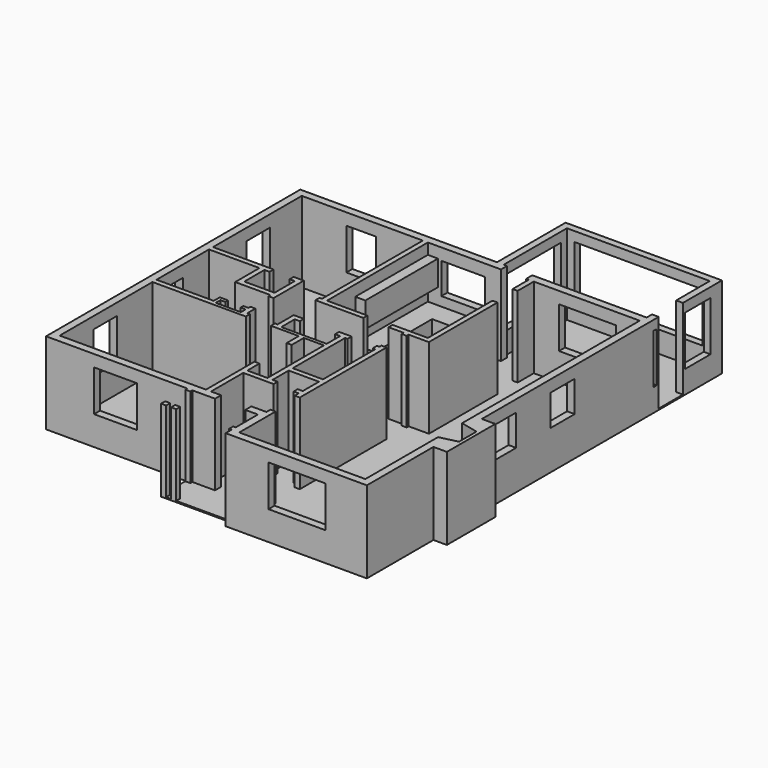
from build123d import *

# Parameters (mm, degrees)
F0_W      = 457.2
F0_H      = 76.2
F0_W_2    = 152.4
F1_DEPTH  = 2438.4
F0_W_3    = 203.2
F0_H_2    = 203.2
F0_W_4    = 76.2
F0_H_3    = 152.4
F0_W_5    = 1524
F0_H_4    = 787.4
F0_H_5    = 914.4
F2_DEPTH  = 38.1
F4_START  = 647.7
F3_W      = 203.2
F3_H      = 2108.2
F3_W_2    = 3860.8
F3_H_2    = 203.2
F3_H_3    = 965.2
F3_H_4    = 127
F4_DEPTH  = 1498.6
F5_START  = 838.2
F3_W_3    = 1727.2
F3_H_5    = 228.6
F3_W_4    = 1295.4
F3_W_5    = 228.6
F3_H_6    = 889
F3_W_6    = 889
F5_DEPTH  = 1244.6
F6_START  = 1143
F3_H_7    = 914.4
F3_W_7    = 1320.8
F6_DEPTH  = 939.8
F3_W_8    = 914.4
F3_H_8    = 1676.4
F7_DEPTH  = 50.8
F8_START  = 1168.4
F3_H_9    = 1828.8
F8_DEPTH  = 152.4
F9_START  = 1270
F9_DEPTH  = 609.6
F3_W_9    = 304.8
F3_H_10   = 2743.2
F10_DEPTH = 863.6
F11_START = 1346.2
F11_DEPTH = 762
F3_W_10   = 1524
F3_H_11   = 101.6
F12_DEPTH = 381
F13_SCALE = 0.025


with BuildPart() as f1:
    # F0 (on Top) → F1 (new body)
    with BuildSketch(Plane.XY):
        Polygon((3835.4, 11709.4), (4038.6, 11709.4), (4038.6, 13182.6), (-685.8, 13182.6), (-685.8, 10591.8), (-482.6, 10591.8), (-482.6, 12979.4), (3835.4, 12979.4), align=None)
        Polygon((-482.6, 10591.8), (-685.8, 10591.8), (-6629.4, 10591.8), (-6629.4, 990.6), (-2362.2, 990.6), (-2209.8, 990.6), (-1524, 990.6), (-1524, 1219.2), (-1828.8, 1219.2), (-1828.8, 2438.4), (-914.4, 2438.4), (-914.4, 2590.8), (-1066.8, 2590.8), (-1066.8, 3200.4), (-152.4, 3200.4), (-152.4, 2590.8), (-304.8, 2590.8), (-304.8, 2438.4), (-152.4, 2438.4), (-152.4, 2286), (0, 2286), (0, 5562.6), (-152.4, 5562.6), (-152.4, 5486.4), (-228.6, 5486.4), (-228.6, 5334), (-152.4, 5334), (-152.4, 3352.8), (-1066.8, 3352.8), (-1066.8, 5334), (-990.6, 5334), (-990.6, 5486.4), (-1371.6, 5486.4), (-1371.6, 5334), (-1219.2, 5334), (-1219.2, 4826), (-2590.8, 4826), (-2590.8, 5334), (-2438.4, 5334), (-2438.4, 5486.4), (-2743.2, 5486.4), (-2743.2, 4876.8), (-2819.4, 4876.8), (-2819.4, 4724.4), (-1981.2, 4724.4), (-1981.2, 4267.2), (-1828.8, 4267.2), (-1828.8, 4724.4), (-1219.2, 4724.4), (-1219.2, 2590.8), (-1828.8, 2590.8), (-1828.8, 3048), (-1981.2, 3048), (-1981.2, 1219.2), (-6400.8, 1219.2), (-6400.8, 4724.4), (-3581.4, 4724.4), (-3581.4, 4876.8), (-3657.6, 4876.8), (-3657.6, 5181.6), (-3810, 5181.6), (-3810, 5105.4), (-3962.4, 5105.4), (-3962.4, 5003.8), (-3810, 5003.8), (-3810, 4826), (-4572, 4826), (-4572, 5003.8), (-4419.6, 5003.8), (-4419.6, 5105.4), (-4673.6, 5105.4), (-4673.6, 4876.8), (-4902.2, 4876.8), (-4902.2, 4800.6), (-5359.4, 4800.6), (-5359.4, 4876.8), (-6400.8, 4876.8), (-6400.8, 5994.4), (-6400.8, 6070.6), (-6400.8, 6858), (-4876.8, 6858), (-4876.8, 6070.6), (-4876.8, 5994.4), (-4876.8, 5943.6), (-3810, 5943.6), (-3810, 5867.4), (-3657.6, 5867.4), (-3657.6, 7010.4), (-3962.4, 7010.4), (-3962.4, 6858), (-3810, 6858), (-3810, 6096), (-4724.4, 6096), (-4724.4, 6858), (-4572, 6858), (-4572, 7010.4), (-6400.8, 7010.4), (-6400.8, 10363.2), (-2743.2, 10363.2), (-2743.2, 6553.2), (-2819.4, 6553.2), (-2819.4, 6400.8), (-1371.6, 6400.8), (-1371.6, 6553.2), (-2590.8, 6553.2), (-2590.8, 10363.2), (-381, 10363.2), (-381, 10591.8), align=None)
        with Locations((-5130.8, 4838.7)):
            Rectangle(F0_W, F0_H)
        with Locations((-2286, 952.5)):
            Rectangle(F0_W_2, F0_H)
    extrude(amount=F1_DEPTH)



with BuildPart() as f1b:
    # F0 (on Top) → F1, piece 2 (new body)
    with BuildSketch(Plane.XY):
        with Locations((3937, 10693.4)):
            Rectangle(F0_W_3, F0_H_2)
        Polygon((3810, 10363.2), (3810, 3657.6), (4038.6, 3603.1714285714), (4038.6, 4114.8), (4038.6, 10591.8), (3835.4, 10591.8), (381, 10591.8), (381, 10363.2), (457.2, 10363.2), (457.2, 9753.6), (609.6, 9753.6), (609.6, 10363.2), align=None)
        Polygon((4343.4, 2870.2), (4038.6, 2797.6285714286), (4038.6, 2286), (4445, 2286), (4445, 4114.8), (4038.6, 4114.8), (4038.6, 3603.1714285714), (4343.4, 3530.6), align=None)
        Polygon((3810, 0), (0, 0), (0, 1219.2), (0, 1371.6), (-152.4, 1371.6), (-152.4, 1219.2), (-609.6, 1219.2), (-609.6, 990.6), (-228.6, 990.6), (-228.6, 152.4), (-228.6, 0), (-228.6, -228.6), (4038.6, -228.6), (4038.6, 2286), (4038.6, 2797.6285714286), (3810, 2743.2), align=None)
        with Locations((-266.7, 76.2)):
            Rectangle(F0_W_4, F0_H_3)
    extrude(amount=F1_DEPTH)


with BuildPart() as f1c:
    # F0 (on Top) → F1, piece 3 (new body)
    with BuildSketch(Plane.XY):
        Polygon((609.6, 8991.6), (457.2, 8991.6), (457.2, 6553.2), (-609.6, 6553.2), (-609.6, 6400.8), (-152.4, 6400.8), (-152.4, 6324.6), (0, 6324.6), (0, 6400.8), (609.6, 6400.8), align=None)
    extrude(amount=F1_DEPTH)


with BuildPart() as f1d:
    # F0 (on Top) → F1, piece 4 (new body)
    with BuildSketch(Plane.XY):
        with Locations((-2286, 76.2)):
            Rectangle(F0_W_2, F0_H_3)
    extrude(amount=F1_DEPTH)


with BuildPart() as f1e:
    # F0 (on Top) → F1, piece 5 (new body)
    with BuildSketch(Plane.XY):
        with Locations((-1981.2, 76.2)):
            Rectangle(F0_W_2, F0_H_3)
    extrude(amount=F1_DEPTH)


with BuildPart() as f1_1:
    add(f1.part)

    add(f1b.part)  # F2 merges F1b

    add(f1c.part)  # F2 merges F1c

    add(f1d.part)  # F2 merges F1d

    add(f1e.part)  # F2 merges F1e
    # F0 (on Top) → F2 (join)
    with BuildSketch(Plane.XY):
        Polygon((0, 1219.2), (0, 0), (3810, 0), (3810, 2743.2), (3810, 3657.6), (3810, 10363.2), (609.6, 10363.2), (609.6, 9753.6), (457.2, 9753.6), (457.2, 10363.2), (381, 10363.2), (381, 10591.8), (3835.4, 10591.8), (3835.4, 10795), (3835.4, 11709.4), (3835.4, 12979.4), (-482.6, 12979.4), (-482.6, 10591.8), (-381, 10591.8), (-381, 10363.2), (-2590.8, 10363.2), (-2590.8, 6553.2), (-1371.6, 6553.2), (-1371.6, 6400.8), (-2819.4, 6400.8), (-2819.4, 6553.2), (-2743.2, 6553.2), (-2743.2, 10363.2), (-6400.8, 10363.2), (-6400.8, 7010.4), (-4572, 7010.4), (-4572, 6858), (-4724.4, 6858), (-4724.4, 6096), (-3810, 6096), (-3810, 6858), (-3962.4, 6858), (-3962.4, 7010.4), (-3657.6, 7010.4), (-3657.6, 5867.4), (-3810, 5867.4), (-3810, 5943.6), (-4876.8, 5943.6), (-4876.8, 5994.4), (-6400.8, 5994.4), (-6400.8, 4876.8), (-5359.4, 4876.8), (-4902.2, 4876.8), (-4673.6, 4876.8), (-4673.6, 5105.4), (-4419.6, 5105.4), (-4419.6, 5003.8), (-4572, 5003.8), (-4572, 4826), (-3810, 4826), (-3810, 5003.8), (-3962.4, 5003.8), (-3962.4, 5105.4), (-3810, 5105.4), (-3810, 5181.6), (-3657.6, 5181.6), (-3657.6, 4876.8), (-3581.4, 4876.8), (-3581.4, 4724.4), (-6400.8, 4724.4), (-6400.8, 1219.2), (-1981.2, 1219.2), (-1981.2, 3048), (-1828.8, 3048), (-1828.8, 2590.8), (-1219.2, 2590.8), (-1219.2, 4724.4), (-1828.8, 4724.4), (-1828.8, 4267.2), (-1981.2, 4267.2), (-1981.2, 4724.4), (-2819.4, 4724.4), (-2819.4, 4876.8), (-2743.2, 4876.8), (-2743.2, 5486.4), (-2438.4, 5486.4), (-2438.4, 5334), (-2590.8, 5334), (-2590.8, 4826), (-1219.2, 4826), (-1219.2, 5334), (-1371.6, 5334), (-1371.6, 5486.4), (-990.6, 5486.4), (-990.6, 5334), (-1066.8, 5334), (-1066.8, 3352.8), (-152.4, 3352.8), (-152.4, 5334), (-228.6, 5334), (-228.6, 5486.4), (-152.4, 5486.4), (-152.4, 5562.6), (0, 5562.6), (0, 2286), (-152.4, 2286), (-152.4, 2438.4), (-304.8, 2438.4), (-304.8, 2590.8), (-152.4, 2590.8), (-152.4, 3200.4), (-1066.8, 3200.4), (-1066.8, 2590.8), (-914.4, 2590.8), (-914.4, 2438.4), (-1828.8, 2438.4), (-1828.8, 1219.2), (-1524, 1219.2), (-1524, 990.6), (-2209.8, 990.6), (-2209.8, 914.4), (-2362.2, 914.4), (-2362.2, 152.4), (-2209.8, 152.4), (-2209.8, 0), (-2057.4, 0), (-2057.4, 152.4), (-1905, 152.4), (-1905, 0), (-304.8, 0), (-304.8, 152.4), (-228.6, 152.4), (-228.6, 990.6), (-609.6, 990.6), (-609.6, 1219.2), (-152.4, 1219.2), (-152.4, 1371.6), (0, 1371.6), align=None)
        Polygon((457.2, 6553.2), (457.2, 8991.6), (609.6, 8991.6), (609.6, 6400.8), (0, 6400.8), (0, 6324.6), (-152.4, 6324.6), (-152.4, 6400.8), (-609.6, 6400.8), (-609.6, 6553.2), align=None, mode=Mode.SUBTRACT)
        Polygon((-482.6, 10591.8), (-685.8, 10591.8), (-6629.4, 10591.8), (-6629.4, 990.6), (-2362.2, 990.6), (-2209.8, 990.6), (-1524, 990.6), (-1524, 1219.2), (-1828.8, 1219.2), (-1828.8, 2438.4), (-914.4, 2438.4), (-914.4, 2590.8), (-1066.8, 2590.8), (-1066.8, 3200.4), (-152.4, 3200.4), (-152.4, 2590.8), (-304.8, 2590.8), (-304.8, 2438.4), (-152.4, 2438.4), (-152.4, 2286), (0, 2286), (0, 5562.6), (-152.4, 5562.6), (-152.4, 5486.4), (-228.6, 5486.4), (-228.6, 5334), (-152.4, 5334), (-152.4, 3352.8), (-1066.8, 3352.8), (-1066.8, 5334), (-990.6, 5334), (-990.6, 5486.4), (-1371.6, 5486.4), (-1371.6, 5334), (-1219.2, 5334), (-1219.2, 4826), (-2590.8, 4826), (-2590.8, 5334), (-2438.4, 5334), (-2438.4, 5486.4), (-2743.2, 5486.4), (-2743.2, 4876.8), (-2819.4, 4876.8), (-2819.4, 4724.4), (-1981.2, 4724.4), (-1981.2, 4267.2), (-1828.8, 4267.2), (-1828.8, 4724.4), (-1219.2, 4724.4), (-1219.2, 2590.8), (-1828.8, 2590.8), (-1828.8, 3048), (-1981.2, 3048), (-1981.2, 1219.2), (-6400.8, 1219.2), (-6400.8, 4724.4), (-3581.4, 4724.4), (-3581.4, 4876.8), (-3657.6, 4876.8), (-3657.6, 5181.6), (-3810, 5181.6), (-3810, 5105.4), (-3962.4, 5105.4), (-3962.4, 5003.8), (-3810, 5003.8), (-3810, 4826), (-4572, 4826), (-4572, 5003.8), (-4419.6, 5003.8), (-4419.6, 5105.4), (-4673.6, 5105.4), (-4673.6, 4876.8), (-4902.2, 4876.8), (-4902.2, 4800.6), (-5359.4, 4800.6), (-5359.4, 4876.8), (-6400.8, 4876.8), (-6400.8, 5994.4), (-6400.8, 6070.6), (-6400.8, 6858), (-4876.8, 6858), (-4876.8, 6070.6), (-4876.8, 5994.4), (-4876.8, 5943.6), (-3810, 5943.6), (-3810, 5867.4), (-3657.6, 5867.4), (-3657.6, 7010.4), (-3962.4, 7010.4), (-3962.4, 6858), (-3810, 6858), (-3810, 6096), (-4724.4, 6096), (-4724.4, 6858), (-4572, 6858), (-4572, 7010.4), (-6400.8, 7010.4), (-6400.8, 10363.2), (-2743.2, 10363.2), (-2743.2, 6553.2), (-2819.4, 6553.2), (-2819.4, 6400.8), (-1371.6, 6400.8), (-1371.6, 6553.2), (-2590.8, 6553.2), (-2590.8, 10363.2), (-381, 10363.2), (-381, 10591.8), align=None)
        Polygon((3810, 10363.2), (3810, 3657.6), (4038.6, 3603.1714285714), (4038.6, 4114.8), (4038.6, 10591.8), (3835.4, 10591.8), (381, 10591.8), (381, 10363.2), (457.2, 10363.2), (457.2, 9753.6), (609.6, 9753.6), (609.6, 10363.2), align=None)
        Polygon((3810, 0), (0, 0), (0, 1219.2), (0, 1371.6), (-152.4, 1371.6), (-152.4, 1219.2), (-609.6, 1219.2), (-609.6, 990.6), (-228.6, 990.6), (-228.6, 152.4), (-228.6, 0), (-228.6, -228.6), (4038.6, -228.6), (4038.6, 2286), (4038.6, 2797.6285714286), (3810, 2743.2), align=None)
        Polygon((3835.4, 11709.4), (4038.6, 11709.4), (4038.6, 13182.6), (-685.8, 13182.6), (-685.8, 10591.8), (-482.6, 10591.8), (-482.6, 12979.4), (3835.4, 12979.4), align=None)
        with Locations((-5638.8, 6464.3)):
            Rectangle(F0_W_5, F0_H_4)
        Polygon((609.6, 8991.6), (457.2, 8991.6), (457.2, 6553.2), (-609.6, 6553.2), (-609.6, 6400.8), (-152.4, 6400.8), (-152.4, 6324.6), (0, 6324.6), (0, 6400.8), (609.6, 6400.8), align=None)
        Polygon((4343.4, 2870.2), (4038.6, 2797.6285714286), (4038.6, 2286), (4445, 2286), (4445, 4114.8), (4038.6, 4114.8), (4038.6, 3603.1714285714), (4343.4, 3530.6), align=None)
        Polygon((4038.6, 3603.1714285714), (4038.6, 2797.6285714286), (4343.4, 2870.2), (4343.4, 3530.6), align=None)
        Polygon((3810, 3657.6), (3810, 2743.2), (4038.6, 2797.6285714286), (4038.6, 3603.1714285714), align=None)
        with Locations((3937, 11252.2)):
            Rectangle(F0_W_3, F0_H_5)
        with Locations((-5638.8, 6032.5)):
            Rectangle(F0_W_5, F0_H)
        with Locations((3937, 10693.4)):
            Rectangle(F0_W_3, F0_H_2)
        with Locations((-5130.8, 4838.7)):
            Rectangle(F0_W, F0_H)
        with Locations((-2286, 76.2)):
            Rectangle(F0_W_2, F0_H_3)
        with Locations((-1981.2, 76.2)):
            Rectangle(F0_W_2, F0_H_3)
        with Locations((-2286, 952.5)):
            Rectangle(F0_W_2, F0_H)
        with Locations((-266.7, 76.2)):
            Rectangle(F0_W_4, F0_H_3)
    extrude(amount=-F2_DEPTH)

    # F3 (on Top) → F4 (cut)
    with BuildSketch(Plane.XY.offset(F4_START)):
        with Locations((-584.2, 11696.7)):
            Rectangle(F3_W, F3_H)
        with Locations((1676.4, 13081)):
            Rectangle(F3_W_2, F3_H_2)
        with Locations((3937, 12268.2)):
            Rectangle(F3_W, F3_H_3)
        with Locations((3937, 10655.3)):
            Rectangle(F3_W, F3_H_4)
    extrude(amount=F4_DEPTH, mode=Mode.SUBTRACT)

    # F3 (on Top) → F5 (cut)
    with BuildSketch(Plane.XY.offset(F5_START)):
        with Locations((1930.4, -114.3)):
            Rectangle(F3_W_3, F3_H_5)
        with Locations((2235.2, 10477.5)):
            Rectangle(F3_W_3, F3_H_5)
        with Locations((-4533.9, 1104.9)):
            Rectangle(F3_W_4, F3_H_5)
        with Locations((-6515.1, 2933.7)):
            Rectangle(F3_W_5, F3_H_6)
        with Locations((-6515.1, 8724.9)):
            Rectangle(F3_W_5, F3_H_6)
        with Locations((-4610.1, 10477.5)):
            Rectangle(F3_W_6, F3_H_5)
    extrude(amount=F5_DEPTH, mode=Mode.SUBTRACT)

    # F3 (on Top) → F6 (cut)
    with BuildSketch(Plane.XY.offset(F6_START)):
        with Locations((-6515.1, 5410.2)):
            Rectangle(F3_W_5, F3_H_7)
        with Locations((3924.3, 7162.8)):
            Rectangle(F3_W_5, F3_H_7)
        with Locations((3924.3, 4953)):
            Rectangle(F3_W_5, F3_H_7)
        with Locations((-1524, 10477.5)):
            Rectangle(F3_W_7, F3_H_5)
    extrude(amount=F6_DEPTH, mode=Mode.SUBTRACT)

    # F3 (on Top) → F7 (cut)
    with BuildSketch(Plane.XY):
        with Locations((-609.6, 4191)):
            Rectangle(F3_W_8, F3_H_8)
    extrude(amount=-F7_DEPTH, mode=Mode.SUBTRACT)

    # F3 (on Top) → F8 (join)
    with BuildSketch(Plane.XY.offset(F8_START)):
        with Locations((3708.4, 3200.4)):
            Rectangle(F3_W, F3_H_9)
    extrude(amount=F8_DEPTH)

    # F0 (on Top) → F9 (cut)
    with BuildSketch(Plane.XY.offset(F9_START)):
        with Locations((-5130.8, 4838.7)):
            Rectangle(F0_W, F0_H)
    extrude(amount=F9_DEPTH, mode=Mode.SUBTRACT)

    # F3 (on Top) → F10 (join)
    with BuildSketch(Plane.XY):
        Polygon((-482.6, 9728.2), (-482.6, 10363.2), (-863.6, 10363.2), (-2184.4, 10363.2), (-2286, 10363.2), (-2286, 7620), (-2590.8, 7620), (-2590.8, 7569.2), (-1955.8, 7569.2), (-1955.8, 9728.2), align=None)
        with Locations((-2438.4, 8991.6)):
            Rectangle(F3_W_9, F3_H_10)
    extrude(amount=F10_DEPTH)

    # F3 (on Top) → F11 (join)
    with BuildSketch(Plane.XY.offset(F11_START)):
        with Locations((-2438.4, 8991.6)):
            Rectangle(F3_W_9, F3_H_10)
    extrude(amount=F11_DEPTH)

    # F3 (on Top) → F12 (join)
    with BuildSketch(Plane.XY):
        with Locations((-5638.8, 6045.2)):
            Rectangle(F3_W_10, F3_H_11)
    extrude(amount=F12_DEPTH)


with BuildPart() as f1_2:
    # F13: moved
    add(f1_1.part.scale(F13_SCALE))


solid = f1_2.part
